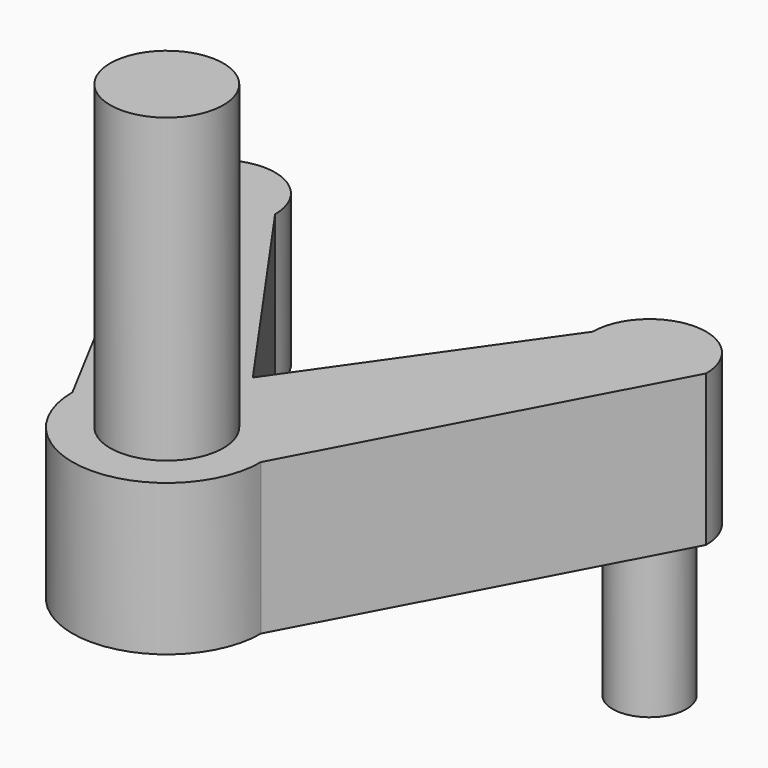
from build123d import *

# Parameters (mm, degrees)
PAD014_DEPTH            = 4
SKETCH029_R             = 1.5
PAD016_DEPTH            = 8
SKETCH027_R             = 0.975
PAD015_DEPTH            = 4
BODY005_PLACEMENT_ANGLE = 180


with BuildPart() as part:
    # Sketch028 → Pad014 (new body)
    with BuildSketch(Plane.XY):
        with BuildLine():
            ThreePointArc((4.21, 0), (5.71, -1.5), (7.21, 0))
            Line((2.5, 8.850012), (7.21, 0))
            ThreePointArc((2.5, 8.850012), (0, 11.35), (-2.5, 8.850012))
            Line((-7.21, 0), (-2.5, 8.850012))
            ThreePointArc((-7.21, 0), (-5.71, -1.5), (-4.21, 0))
            Line((-4.21, 0), (0, 6))
            Line((0, 6), (4.21, 0))
        make_face()
    extrude(amount=PAD014_DEPTH)

    # Sketch029 (on Face9 of Pad014) → Pad016 (join)
    with BuildSketch(Plane.XY.offset(4)):
        with Locations((0, 8.85)):
            Circle(SKETCH029_R)
    extrude(amount=PAD016_DEPTH)

    # Sketch027 (on Face4 of Pad016) → Pad015 (join)
    with BuildSketch(Plane(origin=(0, 0, 0), x_dir=(1, 0, 0), z_dir=(0, 0, -1))):
        with Locations((-5.71, 0)):
            Circle(SKETCH027_R)
        with Locations((5.71, 0)):
            Circle(SKETCH027_R)
    extrude(amount=PAD015_DEPTH)


with BuildPart() as part_1:
    # Body005 placement: moved
    add(part.part.moved(Location((0, 23.5, 6))).rotate(Axis((0, 23.5, 6), (0, 0, 1)), BODY005_PLACEMENT_ANGLE))


solid = part_1.part
